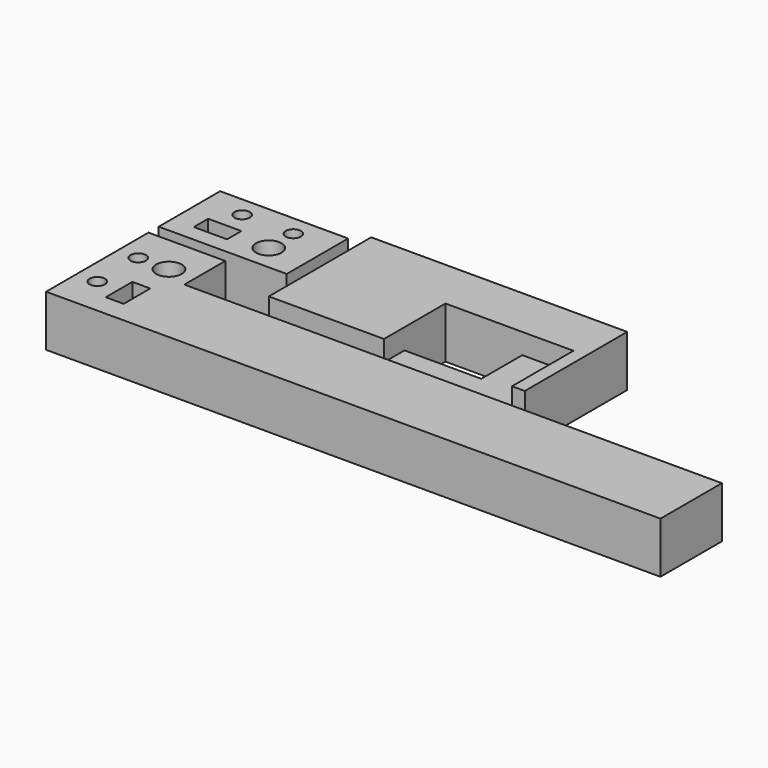
from build123d import *

# Parameters (mm, degrees)
SKETCH001_W     = 50
SKETCH001_H     = 30
PAD001_DEPTH    = 20
SKETCH004_R     = 5
SKETCH004_R_2   = 3
SKETCH004_W     = 13
SKETCH004_H     = 7
POCKET001_DEPTH = 20
SKETCH002_W     = 100
SKETCH002_H     = 50
PAD002_DEPTH    = 20
SKETCH005_W     = 50
SKETCH005_H     = 30
POCKET002_DEPTH = 8
SKETCH006_W     = 30
SKETCH006_H     = 20
POCKET003_DEPTH = 12
PAD_DEPTH       = 20
SKETCH003_R     = 5
SKETCH003_R_2   = 3
SKETCH003_W     = 7
SKETCH003_H     = 13
POCKET_DEPTH    = 20


with BuildPart() as body001:
    # Sketch001 → Pad001 (new body)
    with BuildSketch(Plane.XY):
        with Locations((30, 120)):
            Rectangle(SKETCH001_W, SKETCH001_H)
    extrude(amount=PAD001_DEPTH)

    # Sketch004 (on Face6 of Pad001) → Pocket001 (cut)
    with BuildSketch(Plane.XY.offset(20)):
        with Locations((40, 115)):
            Circle(SKETCH004_R)
        with Locations((20, 127)):
            Circle(SKETCH004_R_2)
        with Locations((40, 127)):
            Circle(SKETCH004_R_2)
        with Locations((20, 115)):
            Rectangle(SKETCH004_W, SKETCH004_H)
    extrude(amount=-POCKET001_DEPTH, mode=Mode.SUBTRACT)


with BuildPart() as body001_1:
    # Body001 placement: moved
    add(body001.part.moved(Location((-24.5, -17, 0))))


with BuildPart() as body002:
    # Sketch002 → Pad002 (new body)
    with BuildSketch(Plane.XY):
        with Locations((110, 115)):
            Rectangle(SKETCH002_W, SKETCH002_H)
    extrude(amount=PAD002_DEPTH)

    # Sketch005 (on Face6 of Pad002) → Pocket002 (cut)
    with BuildSketch(Plane.XY.offset(20)):
        with Locations((130, 105)):
            Rectangle(SKETCH005_W, SKETCH005_H)
    extrude(amount=-POCKET002_DEPTH, mode=Mode.SUBTRACT)

    # Sketch006 (on Face6 of Pocket002) → Pocket003 (cut)
    with BuildSketch(Plane.XY.offset(12)):
        with Locations((120, 110)):
            Rectangle(SKETCH006_W, SKETCH006_H)
    extrude(amount=-POCKET003_DEPTH, mode=Mode.SUBTRACT)


with BuildPart() as body002_1:
    # Body002 placement: moved
    add(body002.part.moved(Location((-24.5, -17, 0))))


with BuildPart() as model_fusion:
    # Sketch → Pad (new body)
    with BuildSketch(Plane.XY):
        Polygon((5, 50), (5, 100), (35, 100), (35, 80), (245, 80), (245, 50), align=None)
    extrude(amount=PAD_DEPTH)

    # Sketch003 (on Face8 of Pad) → Pocket (cut)
    with BuildSketch(Plane.XY.offset(20)):
        with Locations((25, 85)):
            Circle(SKETCH003_R)
        with Locations((13, 85)):
            Circle(SKETCH003_R_2)
        with Locations((13, 65)):
            Circle(SKETCH003_R_2)
        with Locations((25, 65)):
            Rectangle(SKETCH003_W, SKETCH003_H)
    extrude(amount=-POCKET_DEPTH, mode=Mode.SUBTRACT)


with BuildPart() as model_fusion_1:
    # Body placement: moved
    add(model_fusion.part.moved(Location((-24.5, -17, 0))))

    # Fusion: union Body001, Body002
    add(body001_1.part)
    add(body002_1.part)


with BuildPart() as model_fusion_2:
    # Fusion placement: moved
    add(model_fusion_1.part.moved(Location((-29.5, -67, -20))))


solid = model_fusion_2.part
